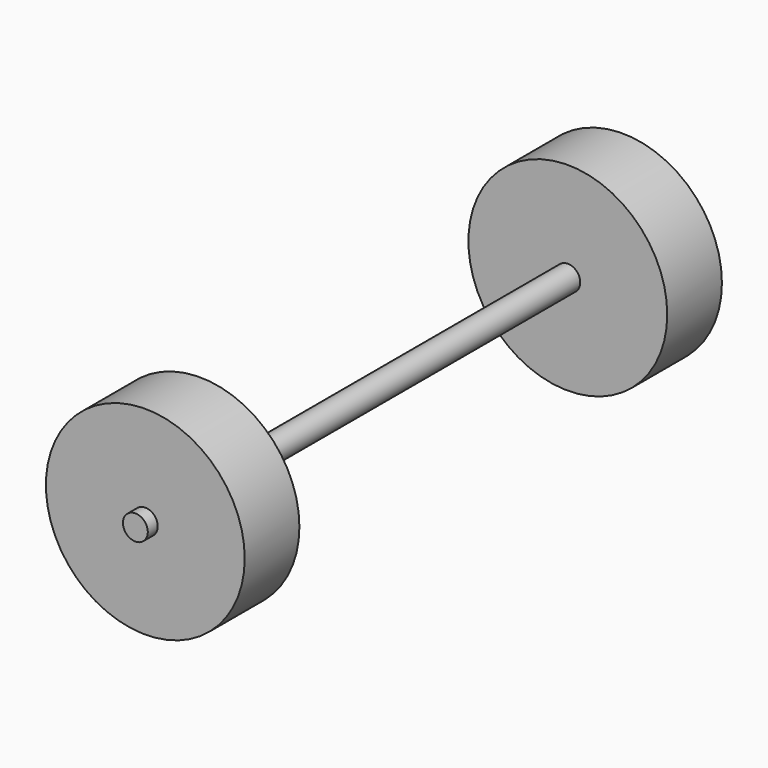
from build123d import *

# Parameters (mm, degrees)
CYLINDER002_R             = 16
CYLINDER002_DEPTH         = 11
CYLINDER002_ROLL_ANGLE    = 90
CYLINDER002001_R          = 16
CYLINDER002001_DEPTH      = 11
CYLINDER002001_ROLL_ANGLE = 90
CYLINDER_R                = 2
CYLINDER_DEPTH            = 100
CYLINDER_ROLL_ANGLE       = -90


with BuildPart() as wheel1:
    # Cylinder002 → Cylinder002 (new body)
    with BuildSketch(Plane.XY):
        Circle(CYLINDER002_R)
    extrude(amount=CYLINDER002_DEPTH)


with BuildPart() as wheel1_1:
    # Cylinder002 roll: moved
    add(wheel1.part.rotate(Axis((0, 0, 0), (1, 0, 0)), CYLINDER002_ROLL_ANGLE))


with BuildPart() as wheel1_2:
    # Cylinder002 placement: moved
    add(wheel1_1.part.moved(Location((20, -7, 14))))


with BuildPart() as wheel2:
    # Cylinder002001 → Cylinder002001 (new body)
    with BuildSketch(Plane.XY):
        Circle(CYLINDER002001_R)
    extrude(amount=CYLINDER002001_DEPTH)


with BuildPart() as wheel2_1:
    # Cylinder002001 roll: moved
    add(wheel2.part.rotate(Axis((0, 0, 0), (1, 0, 0)), CYLINDER002001_ROLL_ANGLE))


with BuildPart() as wheel2_2:
    # Cylinder002001 placement: moved
    add(wheel2_1.part.moved(Location((20, 78, 14))))


with BuildPart() as obj1:
    # Cylinder → Cylinder (new body)
    with BuildSketch(Plane.XY):
        Circle(CYLINDER_R)
    extrude(amount=CYLINDER_DEPTH)


with BuildPart() as obj1_1:
    # Cylinder roll: moved
    add(obj1.part.rotate(Axis((0, 0, 0), (1, 0, 0)), CYLINDER_ROLL_ANGLE))


with BuildPart() as obj1_2:
    # Cylinder placement: moved
    add(obj1_1.part.moved(Location((20, -20, 14))))

    # Fusion001: union Wheel1, Wheel2
    add(wheel1_2.part)
    add(wheel2_2.part)


with BuildPart() as obj1_3:
    # Fusion001 placement: moved
    add(obj1_2.part.moved(Location((125, 0, 0))))


solid = obj1_3.part
